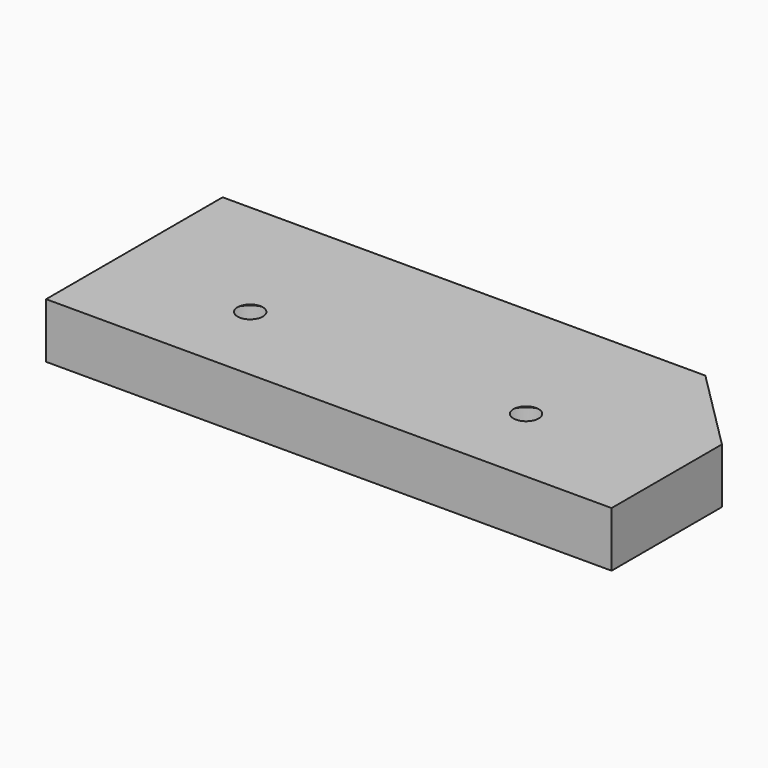
from build123d import *

# Parameters (mm, degrees)
F0_W     = 41
F0_H     = 16
F1_DEPTH = 4
F2_D     = 3.5
F2_DEPTH = 3.5
F2_TIP   = 1.0515060833
F3_SIZE  = 6


with BuildPart() as f1:
    # F0 (on Top) → F1 (new body)
    with BuildSketch(Plane.XY):
        Rectangle(F0_W, F0_H)
    extrude(amount=F1_DEPTH)

    # F2
    with Locations(Plane(origin=(0, 0, 0), x_dir=(1, 0, 0), z_dir=(0, 0, -1))):
        with Locations((-10.5, 2), (9.5, 2)):
            Hole(F2_D / 2, depth=F2_DEPTH)
            with Locations((0, 0, -(F2_DEPTH + F2_TIP / 2))):  # 118° drill point
                Cone(0, F2_D / 2, F2_TIP, mode=Mode.SUBTRACT)

    # F3
    f3_edges = [f1.edges().sort_by_distance(p)[0] for p in [
        (20.5, 8, 2),
    ]]
    chamfer(f3_edges, length=F3_SIZE)


solid = f1.part
